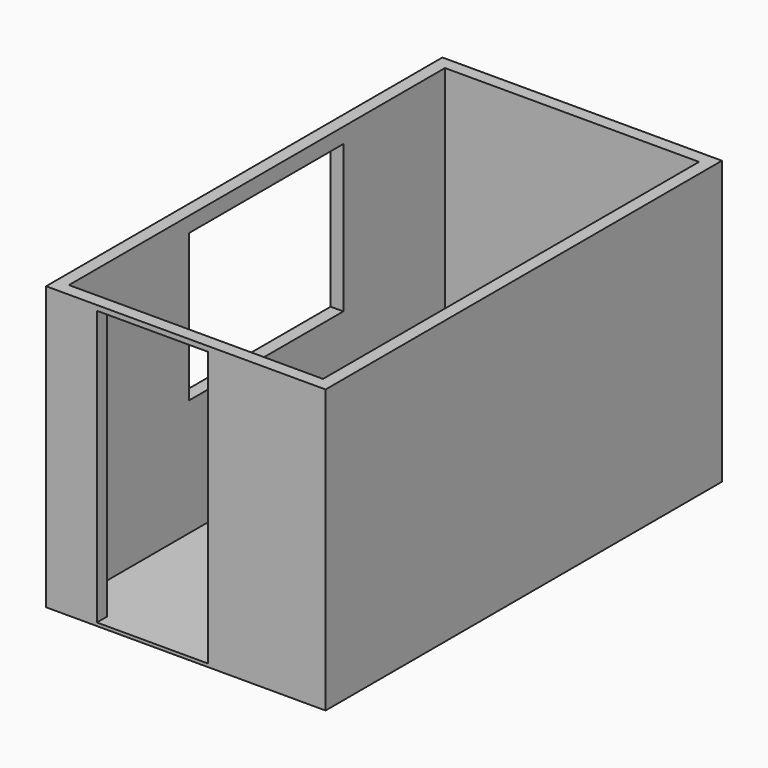
from build123d import *

# Parameters (mm, degrees)
F0_W     = 2200
F0_H     = 3900
F0_W_2   = 2000
F0_H_2   = 3700
F1_DEPTH = 2200
F2_DEPTH = 25
F3_W     = 874.091219902
F3_H     = 2160
F4_DEPTH = 100
F5_W     = 1520
F5_H     = 1160
F6_DEPTH = 100


with BuildPart() as f1:
    # F0 (on Top) → F1 (new body)
    with BuildSketch(Plane.XY):
        with Locations((1000, 1850)):
            Rectangle(F0_W, F0_H)
        with Locations((1000, 1850)):
            Rectangle(F0_W_2, F0_H_2, mode=Mode.SUBTRACT)
    extrude(amount=F1_DEPTH)

    # F0 (on Top) → F2 (join)
    with BuildSketch(Plane.XY):
        with Locations((1000, 1850)):
            Rectangle(F0_W, F0_H)
        with Locations((1000, 1850)):
            Rectangle(F0_W_2, F0_H_2, mode=Mode.SUBTRACT)
        with Locations((1000, 1850)):
            Rectangle(F0_W_2, F0_H_2)
    extrude(amount=-F2_DEPTH)

    # F3 (on face) → F4 (cut, through all)
    with BuildSketch(Plane.XZ.offset(100)):
        with Locations((737.045609951, 1080)):
            Rectangle(F3_W, F3_H)
    extrude(amount=-F4_DEPTH, mode=Mode.SUBTRACT)

    # F5 (on face) → F6 (cut, through all)
    with BuildSketch(Plane(origin=(-100, 0, 0), x_dir=(0, -1, 0), z_dir=(-1, 0, 0))):
        with Locations((-1940, 1500)):
            Rectangle(F5_W, F5_H)
    extrude(amount=-F6_DEPTH, mode=Mode.SUBTRACT)


solid = f1.part
